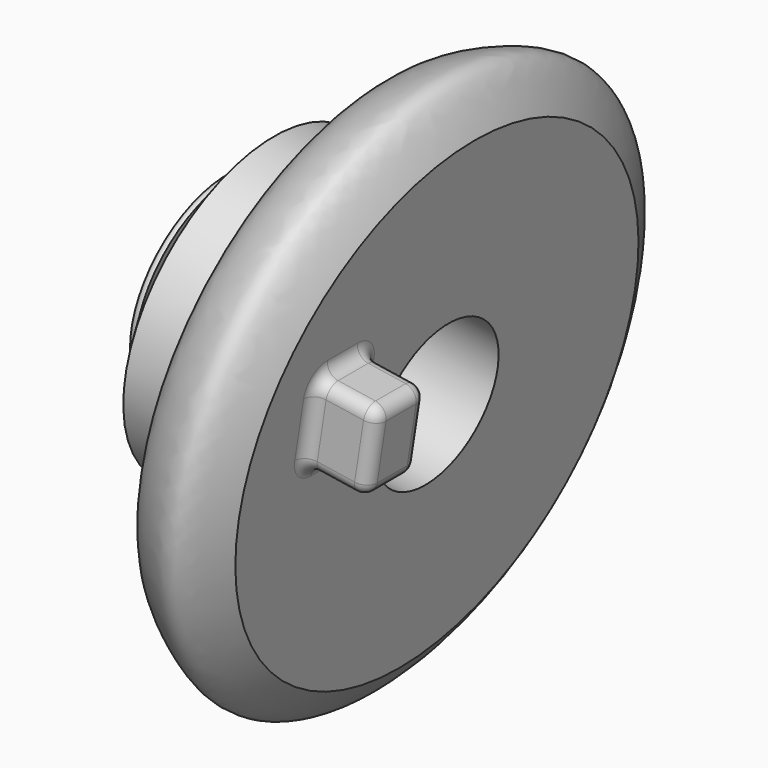
from build123d import *

# Parameters (mm, degrees)
F2_W     = 25.3208093345
F2_H     = 33.5311964154
F3_DEPTH = 25.4
F4_R     = 5.08


with BuildPart() as f1:
    # F0 (on Front) → F1 (revolve)
    with BuildSketch(Plane.XZ):
        with BuildLine():
            Line((41.4025224745, 37.2772142291), (-41.7960137129, 50.1290224493))
            Line((-41.7960137129, 50.1290224493), (-47.88370803, 43.3649122715))
            ThreePointArc((-47.88370803, 43.3649122715), (-50.9974901684, 42.5398768664), (-48.5601238906, 40.4337979853))
            Line((-48.5601238906, 40.4337979853), (-38.8648994267, 16.9848874211))
            Line((-38.8648994267, 16.9848874211), (11.1895054579, 13.6028332636))
            add(Edge.make_bspline(
                [(30.8228296311, -31.2123665991), (26.0733032642, -37.4581128086), (18.0924088688, -47.9531889632), (7.852625195, -43.1631124747), (-2.7033883096, -34.9607181424), (-6.7790452743, -28.9620872502), (-8.3322263391, -21.8440654817), (-0.4979283624, -12.0608253538), (10.9799622152, -1.7838494148), (14.2192302297, -0.9683620358), (20.5993785527, 12.0020594584), (14.1002654097, 13.1076652377), (11.1895054579, 13.6028332636)],
                knots=[0, 0, 0, 0, 0.1401753137, 0.2355444079, 0.3517887755, 0.4363092439, 0.5146478692, 0.6270006035, 0.749162836, 0.8100461893, 0.914925324, 1, 1, 1, 1], degree=3))
            Line((30.8228296311, -31.2123665991), (41.4025224745, 37.2772142291))
        make_face()
    revolve(axis=Axis((25.2017948977, 0, 70.7131682774), (0.9882786223, 0, -0.152660947)))

    # F2 (on face) → F3 (join)
    with BuildSketch(Plane(origin=(34.8135504836, 0, -5.3777036806), x_dir=(0, 1, 0), z_dir=(0.9882786223, 0, -0.152660947))):
        with Locations((-55.94955571, 95.9680862725)):
            Rectangle(F2_W, F2_H)
    extrude(amount=F3_DEPTH)

    # F4
    f4_edges = [f1.edges().sort_by_distance(p)[0] for p in [
        (74.566406, -68.60996, 85.587916),
        (74.566406, -43.289151, 85.587916),
        (72.006954, -55.949556, 69.018834),
        (77.125859, -55.949556, 102.156999),
        (64.57472, -68.60996, 104.095793),
        (59.455816, -68.60996, 70.957628),
        (59.455816, -43.289151, 70.957628),
        (64.57472, -43.289151, 104.095793),
        (52.023582, -55.949556, 106.034587),
        (49.464129, -43.289151, 89.465504),
        (46.904677, -55.949556, 72.896422),
        (49.464129, -68.60996, 89.465504),
    ]]
    fillet(f4_edges, radius=F4_R)


solid = f1.part
